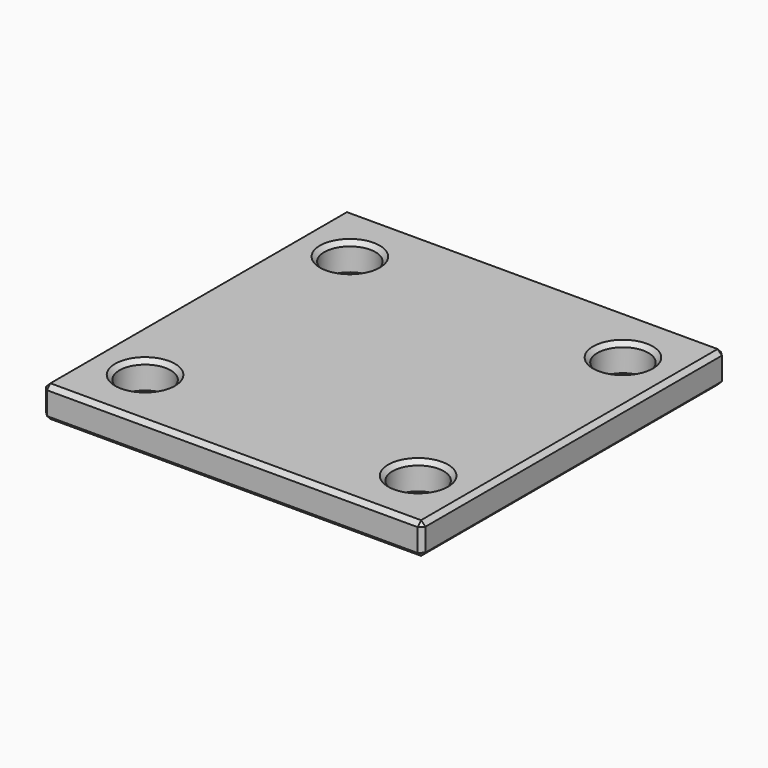
from build123d import *

# Parameters (mm, degrees)
F0_W     = 44.45
F0_H     = 44.45
F0_R     = 3
F1_DEPTH = 3.683
F2_SIZE  = 0.508


with BuildPart() as f1:
    # F0 (on Top) → F1 (new body)
    with BuildSketch(Plane.XY):
        Rectangle(F0_W, F0_H)
        with Locations((-16, -15)):
            Circle(F0_R, mode=Mode.SUBTRACT)
        with Locations((16, -15)):
            Circle(F0_R, mode=Mode.SUBTRACT)
        with Locations((-16, 15)):
            Circle(F0_R, mode=Mode.SUBTRACT)
        with Locations((16, 15)):
            Circle(F0_R, mode=Mode.SUBTRACT)
    extrude(amount=F1_DEPTH)

    # F2
    f2_edges = [f1.edges().sort_by_distance(p)[0] for p in [
        (-19, 15, 3.683),
        (13, 15, 3.683),
        (-19, -15, 3.683),
        (19, -15, 1.8415),
        (13, -15, 0),
        (13, -15, 3.683),
        (-19, -15, 0),
        (13, 15, 0),
        (-19, 15, 0),
        (0, -22.225, 0),
        (22.225, 0, 0),
        (0, 22.225, 0),
        (-22.225, 0, 0),
        (-22.225, 22.225, 1.8415),
        (-22.225, -22.225, 1.8415),
        (-22.225, 0, 3.683),
        (22.225, 22.225, 1.8415),
        (0, 22.225, 3.683),
        (22.225, -22.225, 1.8415),
        (22.225, 0, 3.683),
        (0, -22.225, 3.683),
    ]]
    chamfer(f2_edges, length=F2_SIZE)


solid = f1.part
